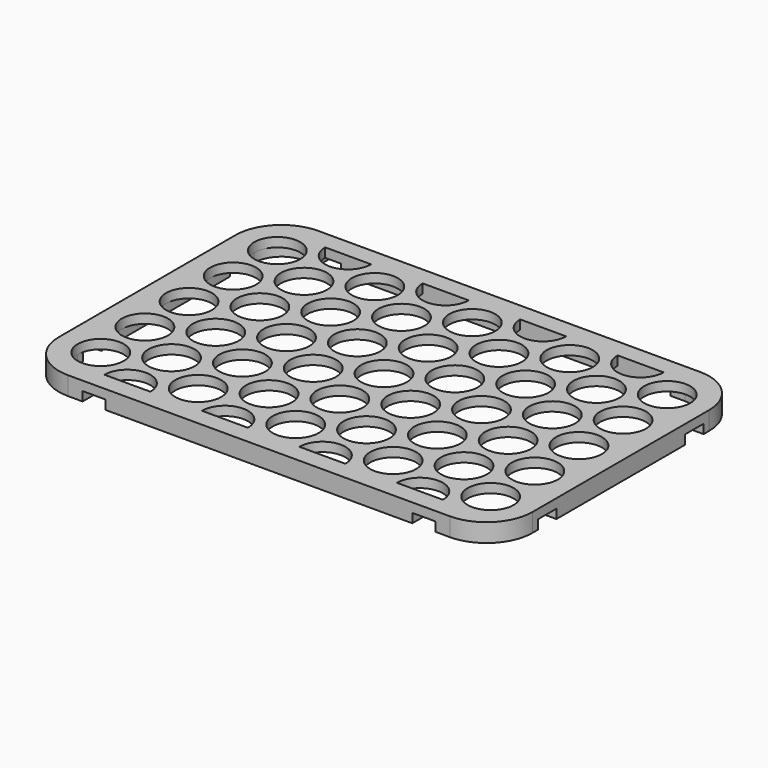
from build123d import *

# Parameters (mm, degrees)
F1_DEPTH  = 4
F3_DEPTH  = 2
F5_DEPTH  = 2
F6_W      = 5
F6_H      = 4
F6_W_2    = 4
F6_H_2    = 5
F7_DEPTH  = 2
F9_R      = 5
F10_DEPTH = 4.001


with BuildPart() as f1:
    # F0 (on Top) → F1 (new body)
    with BuildSketch(Plane.XY):
        with BuildLine():
            ThreePointArc((51.5, 24), (48.5710678119, 31.0710678119), (41.5, 34))
            Line((41.5, 34), (-41.5, 34))
            ThreePointArc((-41.5, 34), (-48.5710678119, 31.0710678119), (-51.5, 24))
            Line((-51.5, 24), (-51.5, -24))
            ThreePointArc((-51.5, -24), (-48.5710678119, -31.0710678119), (-41.5, -34))
            Line((-41.5, -34), (41.5, -34))
            ThreePointArc((41.5, -34), (48.5710678119, -31.0710678119), (51.5, -24))
            Line((51.5, -24), (51.5, 24))
        make_face()
        with BuildLine():
            ThreePointArc((41.5, 30), (45.7426406871, 28.2426406871), (47.5, 24))
            Line((47.5, 24), (47.5, -24))
            ThreePointArc((47.5, -24), (45.7426406871, -28.2426406871), (41.5, -30))
            Line((41.5, -30), (-41.5, -30))
            ThreePointArc((-41.5, -30), (-45.7426406871, -28.2426406871), (-47.5, -24))
            Line((-47.5, -24), (-47.5, 24))
            ThreePointArc((-47.5, 24), (-45.7426406871, 28.2426406871), (-41.5, 30))
            Line((-41.5, 30), (41.5, 30))
        make_face(mode=Mode.SUBTRACT)
    extrude(amount=F1_DEPTH)

    # F2 (on face) → F5 (join)
    with BuildSketch(Plane.XY.offset(4)):
        with BuildLine():
            ThreePointArc((51.5, 24), (48.5710678119, 31.0710678119), (41.5, 34))
            Line((41.5, 34), (-41.5, 34))
            ThreePointArc((-41.5, 34), (-48.5710678119, 31.0710678119), (-51.5, 24))
            Line((-51.5, 24), (-51.5, -24))
            ThreePointArc((-51.5, -24), (-48.5710678119, -31.0710678119), (-41.5, -34))
            Line((-41.5, -34), (41.5, -34))
            ThreePointArc((41.5, -34), (48.5710678119, -31.0710678119), (51.5, -24))
            Line((51.5, -24), (51.5, 24))
        make_face()
        with BuildLine():
            Line((-41.5, 30), (41.5, 30))
            ThreePointArc((41.5, 30), (45.7426406871, 28.2426406871), (47.5, 24))
            Line((47.5, 24), (47.5, -24))
            ThreePointArc((47.5, -24), (45.7426406871, -28.2426406871), (41.5, -30))
            Line((41.5, -30), (-41.5, -30))
            ThreePointArc((-41.5, -30), (-45.7426406871, -28.2426406871), (-47.5, -24))
            Line((-47.5, -24), (-47.5, 24))
            ThreePointArc((-47.5, 24), (-45.7426406871, 28.2426406871), (-41.5, 30))
        make_face(mode=Mode.SUBTRACT)
        with BuildLine():
            ThreePointArc((47.5, 24), (45.7426406871, 28.2426406871), (41.5, 30))
            Line((41.5, 30), (-41.5, 30))
            ThreePointArc((-41.5, 30), (-45.7426406871, 28.2426406871), (-47.5, 24))
            Line((-47.5, 24), (-47.5, -24))
            ThreePointArc((-47.5, -24), (-45.7426406871, -28.2426406871), (-41.5, -30))
            Line((-41.5, -30), (41.5, -30))
            ThreePointArc((41.5, -30), (45.7426406871, -28.2426406871), (47.5, -24))
            Line((47.5, -24), (47.5, 24))
        make_face()
    extrude(amount=-F5_DEPTH)

    # F6 (on face) → F7 (cut)
    with BuildSketch(Plane(origin=(0, 0, 0), x_dir=(1, 0, 0), z_dir=(0, 0, -1))):
        with Locations((-35.85, 32)):
            Rectangle(F6_W, F6_H)
        with Locations((35.85, 32)):
            Rectangle(F6_W, F6_H)
        with Locations((-35.85, -32)):
            Rectangle(F6_W, F6_H)
        with Locations((35.85, -32)):
            Rectangle(F6_W, F6_H)
        with Locations((-49.5, 20)):
            Rectangle(F6_W_2, F6_H_2)
        with Locations((-49.5, -20)):
            Rectangle(F6_W_2, F6_H_2)
        with Locations((49.5, -20)):
            Rectangle(F6_W_2, F6_H_2)
        with Locations((49.5, 20)):
            Rectangle(F6_W_2, F6_H_2)
    extrude(amount=-F7_DEPTH, mode=Mode.SUBTRACT)

    # F9 (on face) → F10 (cut, through all)
    with BuildSketch(Plane.XY.offset(4)):
        with Locations((-42.4, 24)):
            Circle(F9_R)
        with BuildLine():
            Line((-26.8, 30), (-36.8, 30))
            ThreePointArc((-36.8, 30), (-31.8, 25), (-26.8, 30))
        make_face()
        with Locations((-31.8, 18)):
            Circle(F9_R)
        with Locations((-42.4, 12)):
            Circle(F9_R)
        with Locations((-42.4, 0)):
            Circle(F9_R)
        with Locations((-31.8, 6)):
            Circle(F9_R)
        with Locations((-31.8, -6)):
            Circle(F9_R)
        with Locations((-42.4, -12)):
            Circle(F9_R)
        with Locations((-42.4, -24)):
            Circle(F9_R)
        with Locations((-31.8, -18)):
            Circle(F9_R)
        with BuildLine():
            ThreePointArc((-26.8, -30), (-31.8, -25), (-36.8, -30))
            Line((-36.8, -30), (-26.8, -30))
        make_face()
        with Locations((-21.2, -24)):
            Circle(F9_R)
        with Locations((-21.2, -12)):
            Circle(F9_R)
        with Locations((-21.2, 0)):
            Circle(F9_R)
        with Locations((-21.2, 12)):
            Circle(F9_R)
        with Locations((-21.2, 24)):
            Circle(F9_R)
        with BuildLine():
            ThreePointArc((-15.6, 30), (-10.6, 25), (-5.6, 30))
            Line((-5.6, 30), (-15.6, 30))
        make_face()
        with Locations((-10.6, 18)):
            Circle(F9_R)
        with Locations((-10.6, 6)):
            Circle(F9_R)
        with Locations((-10.6, -6)):
            Circle(F9_R)
        with Locations((-10.6, -18)):
            Circle(F9_R)
        with BuildLine():
            Line((-15.6, -30), (-5.6, -30))
            ThreePointArc((-5.6, -30), (-10.6, -25), (-15.6, -30))
        make_face()
        with Locations((0, -24)):
            Circle(F9_R)
        with Locations((0, -12)):
            Circle(F9_R)
        Circle(F9_R)
        with Locations((0, 12)):
            Circle(F9_R)
        with Locations((0, 24)):
            Circle(F9_R)
        with BuildLine():
            Line((15.6, 30), (5.6, 30))
            ThreePointArc((5.6, 30), (10.6, 25), (15.6, 30))
        make_face()
        with Locations((10.6, 18)):
            Circle(F9_R)
        with Locations((10.6, 6)):
            Circle(F9_R)
        with Locations((10.6, -6)):
            Circle(F9_R)
        with Locations((10.6, -18)):
            Circle(F9_R)
        with BuildLine():
            ThreePointArc((15.6, -30), (10.6, -25), (5.6, -30))
            Line((5.6, -30), (15.6, -30))
        make_face()
        with Locations((21.2, -24)):
            Circle(F9_R)
        with Locations((21.2, -12)):
            Circle(F9_R)
        with Locations((21.2, 0)):
            Circle(F9_R)
        with Locations((21.2, 12)):
            Circle(F9_R)
        with Locations((21.2, 24)):
            Circle(F9_R)
        with BuildLine():
            ThreePointArc((26.8, 30), (31.8, 25), (36.8, 30))
            Line((36.8, 30), (26.8, 30))
        make_face()
        with Locations((31.8, 18)):
            Circle(F9_R)
        with Locations((31.8, 6)):
            Circle(F9_R)
        with Locations((31.8, -6)):
            Circle(F9_R)
        with Locations((31.8, -18)):
            Circle(F9_R)
        with BuildLine():
            Line((26.8, -30), (36.8, -30))
            ThreePointArc((36.8, -30), (31.8, -25), (26.8, -30))
        make_face()
        with Locations((42.4, -24)):
            Circle(F9_R)
        with Locations((42.4, -12)):
            Circle(F9_R)
        with Locations((42.4, 0)):
            Circle(F9_R)
        with Locations((42.4, 12)):
            Circle(F9_R)
        with Locations((42.4, 24)):
            Circle(F9_R)
    extrude(amount=-F10_DEPTH, mode=Mode.SUBTRACT)


with BuildPart() as f3:
    # F2 (on face) → F3 (new body)
    with BuildSketch(Plane.XY.offset(4)):
        with BuildLine():
            ThreePointArc((51.5, 24), (48.5710678119, 31.0710678119), (41.5, 34))
            Line((41.5, 34), (-41.5, 34))
            ThreePointArc((-41.5, 34), (-48.5710678119, 31.0710678119), (-51.5, 24))
            Line((-51.5, 24), (-51.5, -24))
            ThreePointArc((-51.5, -24), (-48.5710678119, -31.0710678119), (-41.5, -34))
            Line((-41.5, -34), (41.5, -34))
            ThreePointArc((41.5, -34), (48.5710678119, -31.0710678119), (51.5, -24))
            Line((51.5, -24), (51.5, 24))
        make_face()
        with BuildLine():
            Line((-41.5, 30), (41.5, 30))
            ThreePointArc((41.5, 30), (45.7426406871, 28.2426406871), (47.5, 24))
            Line((47.5, 24), (47.5, -24))
            ThreePointArc((47.5, -24), (45.7426406871, -28.2426406871), (41.5, -30))
            Line((41.5, -30), (-41.5, -30))
            ThreePointArc((-41.5, -30), (-45.7426406871, -28.2426406871), (-47.5, -24))
            Line((-47.5, -24), (-47.5, 24))
            ThreePointArc((-47.5, 24), (-45.7426406871, 28.2426406871), (-41.5, 30))
        make_face(mode=Mode.SUBTRACT)
    extrude(amount=-F3_DEPTH)


solid = f1.part
